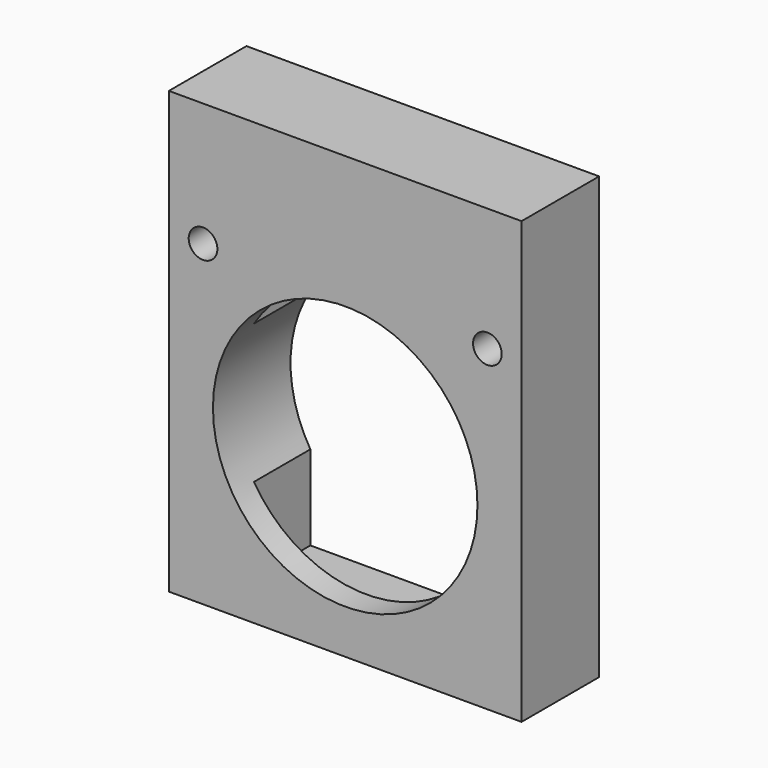
from build123d import *

# Parameters (mm, degrees)
F0_W     = 40
F0_H     = 50
F1_DEPTH = 11
F2_R     = 1.625
F3_DEPTH = 11.001
F4_W     = 25.5
F4_H     = 45
F5_DEPTH = 8
F6_R     = 5
F7_R     = 15
F8_DEPTH = 25


with BuildPart() as f1:
    # F0 (on Front) → F1 (new body)
    with BuildSketch(Plane.XZ):
        Rectangle(F0_W, F0_H)
    extrude(amount=F1_DEPTH)

    # F2 (on face) → F3 (cut, through all)
    with BuildSketch(Plane.XZ.offset(11)):
        with Locations((-16.125, 11)):
            Circle(F2_R)
        with Locations((16.125, 11)):
            Circle(F2_R)
    extrude(amount=-F3_DEPTH, mode=Mode.SUBTRACT)

    # F4 (on face) → F5 (cut)
    with BuildSketch(Plane(origin=(0, 0, 0), x_dir=(-1, 0, 0), z_dir=(0, 1, 0))):
        Rectangle(F4_W, F4_H)
    extrude(amount=-F5_DEPTH, mode=Mode.SUBTRACT)

    # F6
    f6_edges = [f1.edges().sort_by_distance(p)[0] for p in [
        (0, -8, 22.5),
    ]]
    fillet(f6_edges, radius=F6_R)

    # F7 (on face) → F8 (cut)
    with BuildSketch(Plane.XZ.offset(11)):
        with Locations((0, -5)):
            Circle(F7_R)
    extrude(amount=-F8_DEPTH, mode=Mode.SUBTRACT)


solid = f1.part
